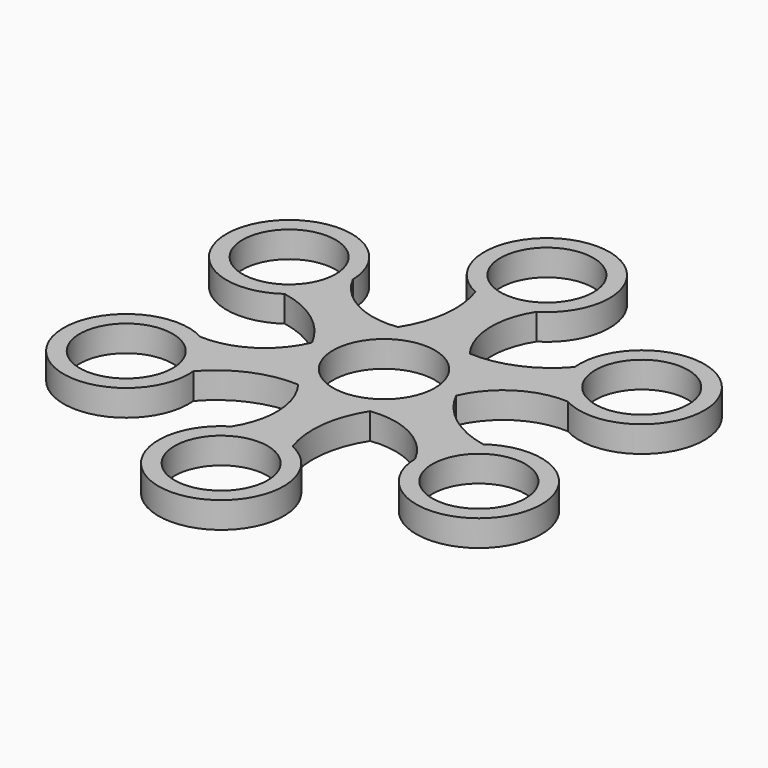
from build123d import *

# Parameters (mm, degrees)
F0_R     = 11.267098278
F0_R_2   = 12.3387041608
F1_DEPTH = 6.35


with BuildPart() as f1:
    # F0 (on Top) → F1 (new body)
    with BuildSketch(Plane.XY):
        with BuildLine():
            ThreePointArc((8.7123179944, 15.0903645105), (4.9401614153, 25.5916315175), (7.8734188263, 36.3574001836))
            ThreePointArc((7.8734188263, 36.3574001836), (-0.9009997096, 64.4580259045), (-6.2804322517, 35.5150251603))
            ThreePointArc((-6.2804322517, 35.5150251603), (-5.1328327, 25.0212030543), (-8.7124800213, 15.0902709642))
            ThreePointArc((-8.7124800213, 15.0902709642), (-19.6929223108, 17.0741210432), (-27.5497227614, 24.99728081))
            ThreePointArc((-27.5497227614, 24.99728081), (-56.2727877659, 31.4487243149), (-33.8971301307, 12.3184987035))
            ThreePointArc((-33.8971301307, 12.3184987035), (-24.2354138283, 8.0654380156), (-17.4247980157, -9.35463e-05))
            ThreePointArc((-17.4247980157, -9.35463e-05), (-24.6330837261, -8.5175104743), (-35.4231415877, -11.3601193736))
            ThreePointArc((-35.4231415877, -11.3601193736), (-55.3717880563, -33.0093015896), (-27.6166978791, -23.1965264569))
            ThreePointArc((-27.6166978791, -23.1965264569), (-19.1025811283, -16.9557650387), (-8.7123179944, -15.0903645105))
            ThreePointArc((-8.7123179944, -15.0903645105), (-4.9401614153, -25.5916315175), (-7.8734188263, -36.3574001836))
            ThreePointArc((-7.8734188263, -36.3574001836), (0.9009997096, -64.4580259045), (6.2804322517, -35.5150251603))
            ThreePointArc((6.2804322517, -35.5150251603), (5.1328327, -25.0212030543), (8.7124800213, -15.0902709642))
            ThreePointArc((8.7124800213, -15.0902709642), (19.6929223108, -17.0741210432), (27.5497227614, -24.99728081))
            ThreePointArc((27.5497227614, -24.99728081), (56.2727877659, -31.4487243149), (33.8971301307, -12.3184987035))
            ThreePointArc((33.8971301307, -12.3184987035), (24.2354138283, -8.0654380156), (17.4247980157, 9.35463e-05))
            ThreePointArc((17.4247980157, 9.35463e-05), (24.6330837261, 8.5175104743), (35.4231415877, 11.3601193736))
            ThreePointArc((35.4231415877, 11.3601193736), (55.3717880563, 33.0093015896), (27.6166978791, 23.1965264569))
            ThreePointArc((27.6166978791, 23.1965264569), (19.1025811283, 16.9557650387), (8.7123179944, 15.0903645105))
        make_face()
        with Locations((-42.7116318899, -24.6595721692)):
            Circle(F0_R, mode=Mode.SUBTRACT)
        with BuildLine():
            ThreePointArc((-8.3770879832, -15.1094843982), (-8.5446687054, -15.0993233615), (-8.7123179944, -15.0903645105))
            ThreePointArc((-8.7123179944, -15.0903645105), (-8.8358376955, -14.9298053557), (-8.9611030536, -14.7706043858))
            ThreePointArc((-8.9611030536, -14.7706043858), (-8.6707512375, -14.9428978058), (-8.3770879832, -15.1094843982))
        make_face(mode=Mode.SUBTRACT)
        with Locations((0, -49.3191443384)):
            Circle(F0_R, mode=Mode.SUBTRACT)
        with BuildLine():
            ThreePointArc((8.8966533354, -14.8095132023), (8.8040632583, -14.9495618465), (8.7124800213, -15.0902709642))
            ThreePointArc((8.7124800213, -15.0902709642), (8.5116718638, -15.1169625859), (8.3111671005, -15.1458450832))
            ThreePointArc((8.3111671005, -15.1458450832), (8.6055534873, -14.9805397445), (8.8966533354, -14.8095132023))
        make_face(mode=Mode.SUBTRACT)
        with BuildLine():
            ThreePointArc((17.2737413186, 0.2999711959), (17.3487319637, 0.149761515), (17.4247980157, 9.35463e-05))
            ThreePointArc((17.4247980157, 9.35463e-05), (17.3475095593, -0.1871572302), (17.2722701541, -0.3752406974))
            ThreePointArc((17.2722701541, -0.3752406974), (17.2763047248, -0.0376419387), (17.2737413186, 0.2999711959))
        make_face(mode=Mode.SUBTRACT)
        with Locations((42.7116318899, -24.6595721692)):
            Circle(F0_R, mode=Mode.SUBTRACT)
        with Locations((-42.7116318899, 24.6595721692)):
            Circle(F0_R, mode=Mode.SUBTRACT)
        with BuildLine():
            ThreePointArc((-17.2737413186, -0.2999711959), (-17.3487319637, -0.149761515), (-17.4247980157, -9.35463e-05))
            ThreePointArc((-17.4247980157, -9.35463e-05), (-17.3475095593, 0.1871572302), (-17.2722701541, 0.3752406974))
            ThreePointArc((-17.2722701541, 0.3752406974), (-17.2763047248, 0.0376419387), (-17.2737413186, -0.2999711959))
        make_face(mode=Mode.SUBTRACT)
        Circle(F0_R_2, mode=Mode.SUBTRACT)
        with Locations((42.7116318899, 24.6595721692)):
            Circle(F0_R, mode=Mode.SUBTRACT)
        with Locations((0, 49.3191443384)):
            Circle(F0_R, mode=Mode.SUBTRACT)
        with BuildLine():
            ThreePointArc((-17.2722701541, 0.3752406974), (-17.3475095593, 0.1871572302), (-17.4247980157, -9.35463e-05))
            ThreePointArc((-17.4247980157, -9.35463e-05), (-17.3487319637, -0.149761515), (-17.2737413186, -0.2999711959))
            ThreePointArc((-17.2737413186, -0.2999711959), (-17.2763047248, 0.0376419387), (-17.2722701541, 0.3752406974))
        make_face()
        with BuildLine():
            ThreePointArc((-8.9611030536, -14.7706043858), (-8.8358376955, -14.9298053557), (-8.7123179944, -15.0903645105))
            ThreePointArc((-8.7123179944, -15.0903645105), (-8.5446687054, -15.0993233615), (-8.3770879832, -15.1094843982))
            ThreePointArc((-8.3770879832, -15.1094843982), (-8.6707512375, -14.9428978058), (-8.9611030536, -14.7706043858))
        make_face()
        with BuildLine():
            ThreePointArc((8.3111671005, -15.1458450832), (8.5116718638, -15.1169625859), (8.7124800213, -15.0902709642))
            ThreePointArc((8.7124800213, -15.0902709642), (8.8040632583, -14.9495618465), (8.8966533354, -14.8095132023))
            ThreePointArc((8.8966533354, -14.8095132023), (8.6055534873, -14.9805397445), (8.3111671005, -15.1458450832))
        make_face()
        with BuildLine():
            ThreePointArc((17.2722701541, -0.3752406974), (17.3475095593, -0.1871572302), (17.4247980157, 9.35463e-05))
            ThreePointArc((17.4247980157, 9.35463e-05), (17.3487319637, 0.149761515), (17.2737413186, 0.2999711959))
            ThreePointArc((17.2737413186, 0.2999711959), (17.2763047248, -0.0376419387), (17.2722701541, -0.3752406974))
        make_face()
    extrude(amount=F1_DEPTH)


solid = f1.part
